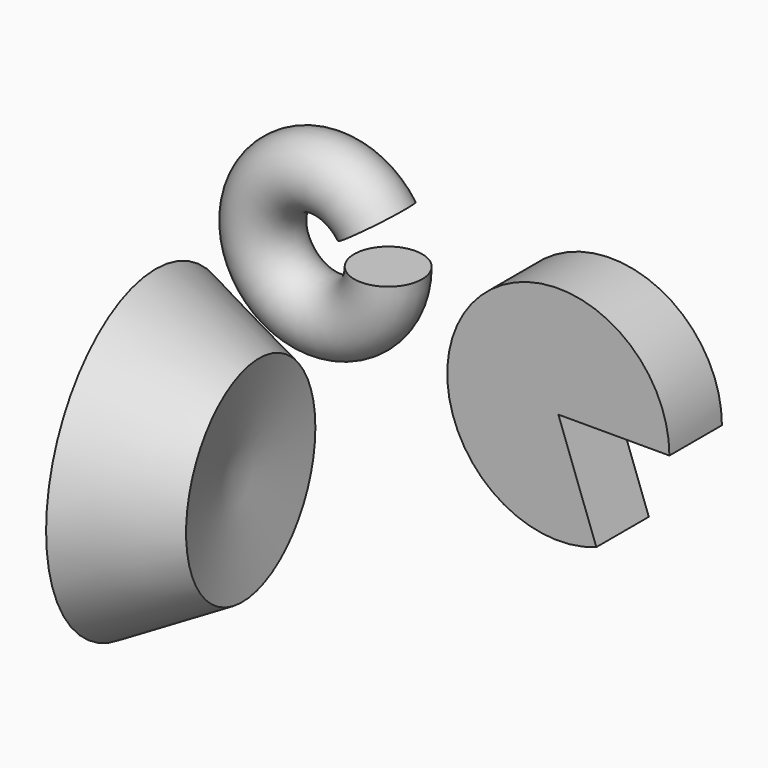
from build123d import *

# Parameters (mm, degrees)
F0_R     = 11.1797222355
F1_ANGLE = 325
F0_W     = 36.5379918367
F0_H     = 21.5906333178
F2_ANGLE = 290


with BuildPart() as f1:
    # F0 (on Top) → F1 (revolve)
    with BuildSketch(Plane.XY):
        with Locations((-62.280677259, 52.5233596563)):
            Circle(F0_R)
    revolve(axis=Axis((-82.9103291035, 50.9820729494, 0), (0, 1, 0)), revolution_arc=F1_ANGLE)


with BuildPart() as f2:
    # F0 (on Top) → F2 (revolve)
    with BuildSketch(Plane.XY):
        with Locations((41.5204456076, 26.3654785231)):
            Rectangle(F0_W, F0_H)
    revolve(axis=Axis((23.2514496893, 26.3654785231, 0), (0, -1, 0)), revolution_arc=F2_ANGLE)


with BuildPart() as f3:
    # F0 (on Top) → F3 (revolve)
    with BuildSketch(Plane.XY):
        Polygon((-20.9524314851, -29.0797241032), (-54.9991987646, -17.4539964646), (-59.9816553295, -69.3545565009), (-20.9524314851, -63.1264895201), align=None)
        Polygon((-50.4319518805, -55.2375987172), (-44.6190871298, -31.9861508906), (-37.9269696142, -58.3638457864), align=None, mode=Mode.SUBTRACT)
    revolve(axis=Axis((-40.4670434073, -66.2405230105, 0), (-0.9875061057, -0.157580745, 0)))


solid = Compound([f1.part, f2.part, f3.part])
